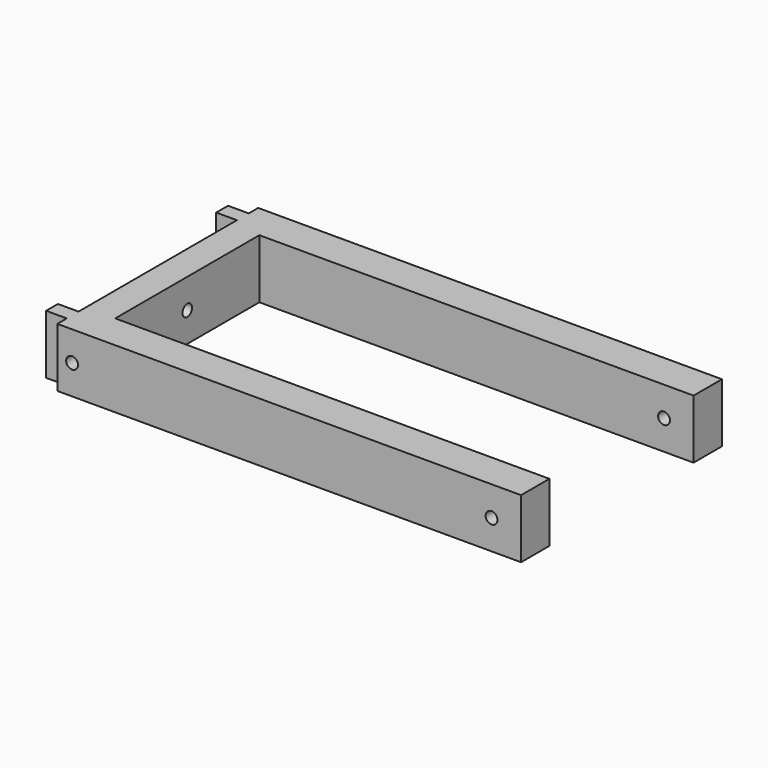
from build123d import *

# Parameters (mm, degrees)
PAD_DEPTH       = 20
SKETCH004_R     = 2
POCKET002_DEPTH = 157.001
SKETCH005_R     = 2
POCKET003_DEPTH = 85.001


with BuildPart() as part:
    # Sketch → Pad (new body)
    with BuildSketch(Plane.XY):
        Polygon((-10, -42.5), (147, -42.5), (147, -30.5), (0, -30.5), (0, 30.5), (147, 30.5), (147, 42.5), (-10, 42.5), (-10, 38.5), (-17, 38.5), (-17, 33.5), (-10, 33.5), (-10, -33.5), (-17, -33.5), (-17, -38.5), (-10, -38.5), align=None)
    extrude(amount=PAD_DEPTH)

    # Sketch004 → Pocket002 (cut, through all)
    with BuildSketch(Plane(origin=(-10, 0, 0), x_dir=(0, -1, 0), z_dir=(-1, 0, 0))):
        with Locations((0, 10)):
            Circle(SKETCH004_R)
    extrude(amount=-POCKET002_DEPTH, mode=Mode.SUBTRACT)

    # Sketch005 → Pocket003 (cut, through all)
    with BuildSketch(Plane.XZ.offset(42.5)):
        with Locations((-5, 10)):
            Circle(SKETCH005_R)
        with Locations((137, 10)):
            Circle(SKETCH005_R)
    extrude(amount=-POCKET003_DEPTH, mode=Mode.SUBTRACT)


solid = part.part
